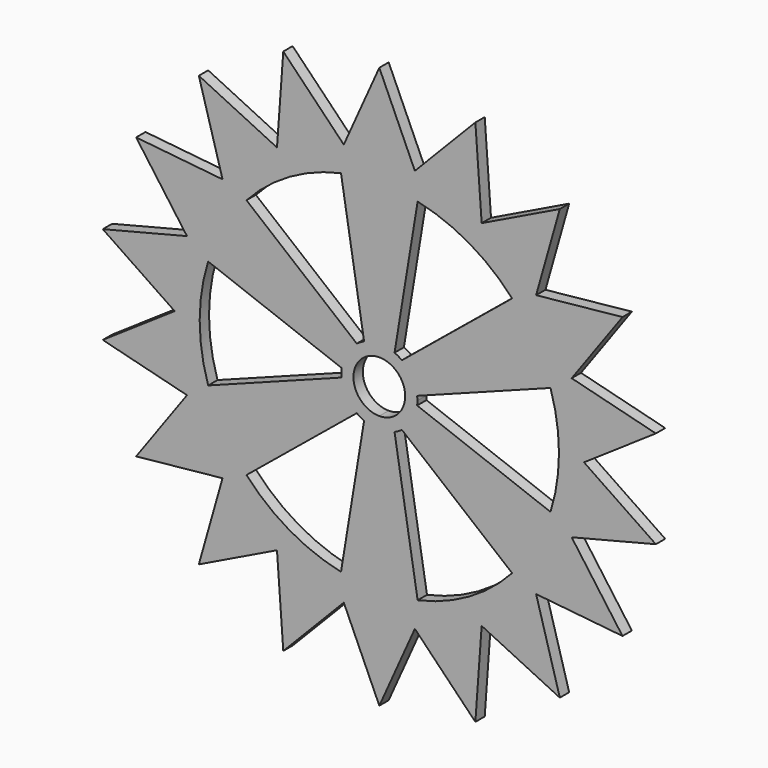
from build123d import *

# Parameters (mm, degrees)
F1_DEPTH = 3.175


with BuildPart() as f1:
    # F0 (on Front) → F1 (new body)
    with BuildSketch(Plane.XZ):
        with BuildLine():
            ThreePointArc((54.0144752369, 1.0356873286), (54.0219214454, 0.5178674576), (54.0244035909, 0))
            ThreePointArc((54.0244035909, 0), (54.0219214454, -0.5178674576), (54.0144752369, -1.0356873286))
            Line((54.0144752369, -1.0356873286), (55.5408836359, 0))
            Line((55.5408836359, 0), (54.0144752369, 1.0356873286))
        make_face()
        with BuildLine():
            ThreePointArc((51.1112297243, 17.5008108221), (53.2036515082, 9.3812392331), (54.0144752369, 1.0356873286))
            Line((54.0144752369, 1.0356873286), (55.5408836359, 0))
            Line((55.5408836359, 0), (75.0423507795, 13.2319911382))
            Line((75.0423507795, 13.2319911382), (52.1913585045, 18.9961009816))
            Line((52.1913585045, 18.9961009816), (51.1112297243, 17.5008108221))
        make_face()
        with BuildLine():
            Line((55.5408836359, 0), (54.0144752369, -1.0356873286))
            ThreePointArc((54.0144752369, -1.0356873286), (53.2036515082, -9.3812392331), (51.1112297243, -17.5008108221))
            Line((51.1112297243, -17.5008108221), (52.1913585045, -18.9961009816))
            Line((52.1913585045, -18.9961009816), (75.0423507795, -13.2319911382))
            Line((75.0423507795, -13.2319911382), (55.5408836359, 0))
        make_face()
        with BuildLine():
            ThreePointArc((50.4027778671, 19.4472663023), (50.7663333968, 18.4774342593), (51.1112297243, 17.5008108221))
            Line((51.1112297243, 17.5008108221), (52.1913585045, 18.9961009816))
            Line((52.1913585045, 18.9961009816), (50.4027778671, 19.4472663023))
        make_face()
        with BuildLine():
            Line((52.1913585045, -18.9961009816), (51.1112297243, -17.5008108221))
            ThreePointArc((51.1112297243, -17.5008108221), (50.7663333968, -18.4774342593), (50.4027778671, -19.4472663023))
            Line((50.4027778671, -19.4472663023), (52.1913585045, -18.9961009816))
        make_face()
        with BuildLine():
            ThreePointArc((42.0432155855, 33.9264529031), (46.786505934, 27.0122017955), (50.4027778671, 19.4472663023))
            Line((50.4027778671, 19.4472663023), (52.1913585045, 18.9961009816))
            Line((52.1913585045, 18.9961009816), (65.9911357684, 38.1))
            Line((65.9911357684, 38.1), (42.5467852752, 35.7009918322))
            Line((42.5467852752, 35.7009918322), (42.0432155855, 33.9264529031))
        make_face()
        with BuildLine():
            Line((52.1913585045, -18.9961009816), (50.4027778671, -19.4472663023))
            ThreePointArc((50.4027778671, -19.4472663023), (46.786505934, -27.0122017955), (42.0432155855, -33.9264529031))
            Line((42.0432155855, -33.9264529031), (42.5467852752, -35.7009918322))
            Line((42.5467852752, -35.7009918322), (65.9911357684, -38.1))
            Line((65.9911357684, -38.1), (52.1913585045, -18.9961009816))
        make_face()
        with BuildLine():
            ThreePointArc((40.7117616209, 35.5132179488), (41.3850941636, 34.726217249), (42.0432155855, 33.9264529031))
            Line((42.0432155855, 33.9264529031), (42.5467852752, 35.7009918322))
            Line((42.5467852752, 35.7009918322), (40.7117616209, 35.5132179488))
        make_face()
        with BuildLine():
            Line((42.5467852752, -35.7009918322), (42.0432155855, -33.9264529031))
            ThreePointArc((42.0432155855, -33.9264529031), (41.3850941636, -34.726217249), (40.7117616209, -35.5132179488))
            Line((40.7117616209, -35.5132179488), (42.5467852752, -35.7009918322))
        make_face()
        with BuildLine():
            ThreePointArc((27.9041691553, 46.2600640629), (34.726217249, 41.3850941636), (40.7117616209, 35.5132179488))
            Line((40.7117616209, 35.5132179488), (42.5467852752, 35.7009918322))
            Line((42.5467852752, 35.7009918322), (48.9804158581, 58.3725865657))
            Line((48.9804158581, 58.3725865657), (27.7704418179, 48.0998161773))
            Line((27.7704418179, 48.0998161773), (27.9041691553, 46.2600640629))
        make_face()
        with BuildLine():
            Line((42.5467852752, -35.7009918322), (40.7117616209, -35.5132179488))
            ThreePointArc((40.7117616209, -35.5132179488), (34.726217249, -41.3850941636), (27.9041691553, -46.2600640629))
            Line((27.9041691553, -46.2600640629), (27.7704418179, -48.0998161773))
            Line((27.7704418179, -48.0998161773), (48.9804158581, -58.3725865657))
            Line((48.9804158581, -58.3725865657), (42.5467852752, -35.7009918322))
        make_face()
        with BuildLine():
            ThreePointArc((26.1103060815, 47.2957513915), (27.0122017955, 46.786505934), (27.9041691553, 46.2600640629))
            Line((27.9041691553, 46.2600640629), (27.7704418179, 48.0998161773))
            Line((27.7704418179, 48.0998161773), (26.1103060815, 47.2957513915))
        make_face()
        with BuildLine():
            Line((27.7704418179, -48.0998161773), (27.9041691553, -46.2600640629))
            ThreePointArc((27.9041691553, -46.2600640629), (27.0122017955, -46.786505934), (26.1103060815, -47.2957513915))
            Line((26.1103060815, -47.2957513915), (27.7704418179, -48.0998161773))
        make_face()
        with BuildLine():
            ThreePointArc((10.3994681034, 53.0140287709), (18.4774342593, 50.7663333968), (26.1103060815, 47.2957513915))
            Line((26.1103060815, 47.2957513915), (27.7704418179, 48.0998161773))
            Line((27.7704418179, 48.0998161773), (26.0619349214, 71.6045777039))
            Line((26.0619349214, 71.6045777039), (9.6445732294, 54.6970928137))
            Line((9.6445732294, 54.6970928137), (10.3994681034, 53.0140287709))
        make_face()
        with BuildLine():
            Line((27.7704418179, -48.0998161773), (26.1103060815, -47.2957513915))
            ThreePointArc((26.1103060815, -47.2957513915), (18.4774342593, -50.7663333968), (10.3994681034, -53.0140287709))
            Line((10.3994681034, -53.0140287709), (9.6445732294, -54.6970928137))
            Line((9.6445732294, -54.6970928137), (26.0619349214, -71.6045777039))
            Line((26.0619349214, -71.6045777039), (27.7704418179, -48.0998161773))
        make_face()
        with BuildLine():
            ThreePointArc((8.3595622817, 53.3737192054), (9.3812392331, 53.2036515082), (10.3994681034, 53.0140287709))
            Line((10.3994681034, 53.0140287709), (9.6445732294, 54.6970928137))
            Line((9.6445732294, 54.6970928137), (8.3595622817, 53.3737192054))
        make_face()
        with BuildLine():
            Line((9.6445732294, -54.6970928137), (10.3994681034, -53.0140287709))
            ThreePointArc((10.3994681034, -53.0140287709), (9.3812392331, -53.2036515082), (8.3595622817, -53.3737192054))
            Line((8.3595622817, -53.3737192054), (9.6445732294, -54.6970928137))
        make_face()
        with BuildLine():
            ThreePointArc((0, 54.0244035909), (4.1924238726, 53.8614868475), (8.3595622817, 53.3737192054))
            Line((8.3595622817, 53.3737192054), (9.6445732294, 54.6970928137))
            Line((9.6445732294, 54.6970928137), (0, 76.2))
            Line((0, 76.2), (-9.6445732294, 54.6970928137))
            Line((-9.6445732294, 54.6970928137), (-8.3595622817, 53.3737192054))
            ThreePointArc((-8.3595622817, 53.3737192054), (-4.1924238726, 53.8614868475), (0, 54.0244035909))
        make_face()
        with BuildLine():
            Line((9.6445732294, -54.6970928137), (8.3595622817, -53.3737192054))
            ThreePointArc((8.3595622817, -53.3737192054), (4.1924238726, -53.8614868475), (0, -54.0244035909))
            ThreePointArc((0, -54.0244035909), (-4.1924238726, -53.8614868475), (-8.3595622817, -53.3737192054))
            Line((-8.3595622817, -53.3737192054), (-9.6445732294, -54.6970928137))
            Line((-9.6445732294, -54.6970928137), (0, -76.2))
            Line((0, -76.2), (9.6445732294, -54.6970928137))
        make_face()
        with BuildLine():
            ThreePointArc((-10.3994681034, 53.0140287709), (-9.3812392331, 53.2036515082), (-8.3595622817, 53.3737192054))
            Line((-8.3595622817, 53.3737192054), (-9.6445732294, 54.6970928137))
            Line((-9.6445732294, 54.6970928137), (-10.3994681034, 53.0140287709))
        make_face()
        with BuildLine():
            Line((-10.3994681034, 53.0140287709), (-9.6445732294, 54.6970928137))
            Line((-9.6445732294, 54.6970928137), (-26.0619349214, 71.6045777039))
            Line((-26.0619349214, 71.6045777039), (-27.7704418179, 48.0998161773))
            Line((-27.7704418179, 48.0998161773), (-26.1103060815, 47.2957513915))
            ThreePointArc((-26.1103060815, 47.2957513915), (-18.4774342593, 50.7663333968), (-10.3994681034, 53.0140287709))
        make_face()
        with BuildLine():
            Line((-9.6445732294, -54.6970928137), (-8.3595622817, -53.3737192054))
            ThreePointArc((-8.3595622817, -53.3737192054), (-9.3812392331, -53.2036515082), (-10.3994681034, -53.0140287709))
            Line((-10.3994681034, -53.0140287709), (-9.6445732294, -54.6970928137))
        make_face()
        with BuildLine():
            Line((-26.0619349214, -71.6045777039), (-9.6445732294, -54.6970928137))
            Line((-9.6445732294, -54.6970928137), (-10.3994681034, -53.0140287709))
            ThreePointArc((-10.3994681034, -53.0140287709), (-18.4774342593, -50.7663333968), (-26.1103060815, -47.2957513915))
            Line((-26.1103060815, -47.2957513915), (-27.7704418179, -48.0998161773))
            Line((-27.7704418179, -48.0998161773), (-26.0619349214, -71.6045777039))
        make_face()
        with BuildLine():
            ThreePointArc((-27.9041691553, 46.2600640629), (-27.0122017955, 46.786505934), (-26.1103060815, 47.2957513915))
            Line((-26.1103060815, 47.2957513915), (-27.7704418179, 48.0998161773))
            Line((-27.7704418179, 48.0998161773), (-27.9041691553, 46.2600640629))
        make_face()
        with BuildLine():
            Line((-27.9041691553, 46.2600640629), (-27.7704418179, 48.0998161773))
            Line((-27.7704418179, 48.0998161773), (-48.9804158581, 58.3725865657))
            Line((-48.9804158581, 58.3725865657), (-42.5467852752, 35.7009918322))
            Line((-42.5467852752, 35.7009918322), (-40.7117616209, 35.5132179488))
            ThreePointArc((-40.7117616209, 35.5132179488), (-34.726217249, 41.3850941636), (-27.9041691553, 46.2600640629))
        make_face()
        with BuildLine():
            Line((-27.7704418179, -48.0998161773), (-26.1103060815, -47.2957513915))
            ThreePointArc((-26.1103060815, -47.2957513915), (-27.0122017955, -46.786505934), (-27.9041691553, -46.2600640629))
            Line((-27.9041691553, -46.2600640629), (-27.7704418179, -48.0998161773))
        make_face()
        with BuildLine():
            Line((-48.9804158581, -58.3725865657), (-27.7704418179, -48.0998161773))
            Line((-27.7704418179, -48.0998161773), (-27.9041691553, -46.2600640629))
            ThreePointArc((-27.9041691553, -46.2600640629), (-34.726217249, -41.3850941636), (-40.7117616209, -35.5132179488))
            Line((-40.7117616209, -35.5132179488), (-42.5467852752, -35.7009918322))
            Line((-42.5467852752, -35.7009918322), (-48.9804158581, -58.3725865657))
        make_face()
        with BuildLine():
            ThreePointArc((-42.0432155855, 33.9264529031), (-41.3850941636, 34.726217249), (-40.7117616209, 35.5132179488))
            Line((-40.7117616209, 35.5132179488), (-42.5467852752, 35.7009918322))
            Line((-42.5467852752, 35.7009918322), (-42.0432155855, 33.9264529031))
        make_face()
        with BuildLine():
            Line((-42.0432155855, 33.9264529031), (-42.5467852752, 35.7009918322))
            Line((-42.5467852752, 35.7009918322), (-65.9911357684, 38.1))
            Line((-65.9911357684, 38.1), (-52.1913585045, 18.9961009816))
            Line((-52.1913585045, 18.9961009816), (-50.4027778671, 19.4472663023))
            ThreePointArc((-50.4027778671, 19.4472663023), (-46.786505934, 27.0122017955), (-42.0432155855, 33.9264529031))
        make_face()
        with BuildLine():
            Line((-42.5467852752, -35.7009918322), (-40.7117616209, -35.5132179488))
            ThreePointArc((-40.7117616209, -35.5132179488), (-41.3850941636, -34.726217249), (-42.0432155855, -33.9264529031))
            Line((-42.0432155855, -33.9264529031), (-42.5467852752, -35.7009918322))
        make_face()
        with BuildLine():
            Line((-65.9911357684, -38.1), (-42.5467852752, -35.7009918322))
            Line((-42.5467852752, -35.7009918322), (-42.0432155855, -33.9264529031))
            ThreePointArc((-42.0432155855, -33.9264529031), (-46.786505934, -27.0122017955), (-50.4027778671, -19.4472663023))
            Line((-50.4027778671, -19.4472663023), (-52.1913585045, -18.9961009816))
            Line((-52.1913585045, -18.9961009816), (-65.9911357684, -38.1))
        make_face()
        with BuildLine():
            ThreePointArc((-51.1112297243, 17.5008108221), (-50.7663333968, 18.4774342593), (-50.4027778671, 19.4472663023))
            Line((-50.4027778671, 19.4472663023), (-52.1913585045, 18.9961009816))
            Line((-52.1913585045, 18.9961009816), (-51.1112297243, 17.5008108221))
        make_face()
        with BuildLine():
            Line((-51.1112297243, 17.5008108221), (-52.1913585045, 18.9961009816))
            Line((-52.1913585045, 18.9961009816), (-75.0423507795, 13.2319911382))
            Line((-75.0423507795, 13.2319911382), (-55.5408836359, 0))
            Line((-55.5408836359, 0), (-54.0144752369, 1.0356873286))
            ThreePointArc((-54.0144752369, 1.0356873286), (-53.2036515082, 9.3812392331), (-51.1112297243, 17.5008108221))
        make_face()
        with BuildLine():
            Line((-52.1913585045, -18.9961009816), (-50.4027778671, -19.4472663023))
            ThreePointArc((-50.4027778671, -19.4472663023), (-50.7663333968, -18.4774342593), (-51.1112297243, -17.5008108221))
            Line((-51.1112297243, -17.5008108221), (-52.1913585045, -18.9961009816))
        make_face()
        with BuildLine():
            Line((-75.0423507795, -13.2319911382), (-52.1913585045, -18.9961009816))
            Line((-52.1913585045, -18.9961009816), (-51.1112297243, -17.5008108221))
            ThreePointArc((-51.1112297243, -17.5008108221), (-53.2036515082, -9.3812392331), (-54.0144752369, -1.0356873286))
            Line((-54.0144752369, -1.0356873286), (-55.5408836359, 0))
            Line((-55.5408836359, 0), (-75.0423507795, -13.2319911382))
        make_face()
        with BuildLine():
            ThreePointArc((-54.0144752369, -1.0356873286), (-54.0244035909, 0), (-54.0144752369, 1.0356873286))
            Line((-54.0144752369, 1.0356873286), (-55.5408836359, 0))
            Line((-55.5408836359, 0), (-54.0144752369, -1.0356873286))
        make_face()
        with BuildLine():
            Line((-6.1288269347, 8.3103227771), (-36.0461253584, 32.8195115967))
            ThreePointArc((-36.0461253584, 32.8195115967), (-42.2176813799, 24.3743897093), (-46.4455934617, 14.80710447))
            Line((-46.4455934617, 14.80710447), (-10.261364106, 1.1525584323))
            ThreePointArc((-10.261364106, 1.1525584323), (-8.9424822164, 5.1629445149), (-6.1288269347, 8.3103227771))
        make_face()
        with BuildLine():
            Line((0, 48.7487794185), (0, 54.0244035909))
            ThreePointArc((0, 54.0244035909), (-4.1924238726, 53.8614868475), (-8.3595622817, 53.3737192054))
            ThreePointArc((-8.3595622817, 53.3737192054), (-9.3812392331, 53.2036515082), (-10.3994681034, 53.0140287709))
            ThreePointArc((-10.3994681034, 53.0140287709), (-18.4774342593, 50.7663333968), (-26.1103060815, 47.2957513915))
            ThreePointArc((-26.1103060815, 47.2957513915), (-27.0122017955, 46.786505934), (-27.9041691553, 46.2600640629))
            ThreePointArc((-27.9041691553, 46.2600640629), (-34.726217249, 41.3850941636), (-40.7117616209, 35.5132179488))
            ThreePointArc((-40.7117616209, 35.5132179488), (-41.3850941636, 34.726217249), (-42.0432155855, 33.9264529031))
            ThreePointArc((-42.0432155855, 33.9264529031), (-46.786505934, 27.0122017955), (-50.4027778671, 19.4472663023))
            ThreePointArc((-50.4027778671, 19.4472663023), (-50.7663333968, 18.4774342593), (-51.1112297243, 17.5008108221))
            ThreePointArc((-51.1112297243, 17.5008108221), (-53.2036515082, 9.3812392331), (-54.0144752369, 1.0356873286))
            ThreePointArc((-54.0144752369, 1.0356873286), (-54.0244035909, 0), (-54.0144752369, -1.0356873286))
            ThreePointArc((-54.0144752369, -1.0356873286), (-53.2036515082, -9.3812392331), (-51.1112297243, -17.5008108221))
            ThreePointArc((-51.1112297243, -17.5008108221), (-50.7663333968, -18.4774342593), (-50.4027778671, -19.4472663023))
            ThreePointArc((-50.4027778671, -19.4472663023), (-46.786505934, -27.0122017955), (-42.0432155855, -33.9264529031))
            ThreePointArc((-42.0432155855, -33.9264529031), (-41.3850941636, -34.726217249), (-40.7117616209, -35.5132179488))
            ThreePointArc((-40.7117616209, -35.5132179488), (-34.726217249, -41.3850941636), (-27.9041691553, -46.2600640629))
            ThreePointArc((-27.9041691553, -46.2600640629), (-27.0122017955, -46.786505934), (-26.1103060815, -47.2957513915))
            ThreePointArc((-26.1103060815, -47.2957513915), (-18.4774342593, -50.7663333968), (-10.3994681034, -53.0140287709))
            ThreePointArc((-10.3994681034, -53.0140287709), (-9.3812392331, -53.2036515082), (-8.3595622817, -53.3737192054))
            ThreePointArc((-8.3595622817, -53.3737192054), (-4.1924238726, -53.8614868475), (0, -54.0244035909))
            Line((0, -54.0244035909), (0, -48.7487794185))
            ThreePointArc((0, -48.7487794185), (-5.2299184368, -48.4674266693), (-10.3994681034, -47.6266160667))
            ThreePointArc((-10.3994681034, -47.6266160667), (-24.3743897093, -42.2176813799), (-36.0461253584, -32.8195115967))
            ThreePointArc((-36.0461253584, -32.8195115967), (-42.2176813799, -24.3743897093), (-46.4455934617, -14.80710447))
            ThreePointArc((-46.4455934617, -14.80710447), (-48.7487794185, 0), (-46.4455934617, 14.80710447))
            ThreePointArc((-46.4455934617, 14.80710447), (-42.2176813799, 24.3743897093), (-36.0461253584, 32.8195115967))
            ThreePointArc((-36.0461253584, 32.8195115967), (-24.3743897093, 42.2176813799), (-10.3994681034, 47.6266160667))
            ThreePointArc((-10.3994681034, 47.6266160667), (-5.2299184368, 48.4674266693), (0, 48.7487794185))
        make_face()
        with BuildLine():
            ThreePointArc((54.0144752369, -1.0356873286), (54.0219214454, -0.5178674576), (54.0244035909, 0))
            ThreePointArc((54.0244035909, 0), (54.0219214454, 0.5178674576), (54.0144752369, 1.0356873286))
            ThreePointArc((54.0144752369, 1.0356873286), (53.2036515082, 9.3812392331), (51.1112297243, 17.5008108221))
            ThreePointArc((51.1112297243, 17.5008108221), (50.7663333968, 18.4774342593), (50.4027778671, 19.4472663023))
            ThreePointArc((50.4027778671, 19.4472663023), (46.786505934, 27.0122017955), (42.0432155855, 33.9264529031))
            ThreePointArc((42.0432155855, 33.9264529031), (41.3850941636, 34.726217249), (40.7117616209, 35.5132179488))
            ThreePointArc((40.7117616209, 35.5132179488), (34.726217249, 41.3850941636), (27.9041691553, 46.2600640629))
            ThreePointArc((27.9041691553, 46.2600640629), (27.0122017955, 46.786505934), (26.1103060815, 47.2957513915))
            ThreePointArc((26.1103060815, 47.2957513915), (18.4774342593, 50.7663333968), (10.3994681034, 53.0140287709))
            ThreePointArc((10.3994681034, 53.0140287709), (9.3812392331, 53.2036515082), (8.3595622817, 53.3737192054))
            ThreePointArc((8.3595622817, 53.3737192054), (4.1924238726, 53.8614868475), (0, 54.0244035909))
            Line((0, 54.0244035909), (0, 48.7487794185))
            ThreePointArc((0, 48.7487794185), (5.2299184368, 48.4674266693), (10.3994681034, 47.6266160667))
            ThreePointArc((10.3994681034, 47.6266160667), (24.3743897093, 42.2176813799), (36.0461253584, 32.8195115967))
            ThreePointArc((36.0461253584, 32.8195115967), (42.2176813799, 24.3743897093), (46.4455934617, 14.80710447))
            ThreePointArc((46.4455934617, 14.80710447), (48.1695416494, 7.4925798017), (48.7487794185, 0))
            ThreePointArc((48.7487794185, 0), (48.1695416494, -7.4925798017), (46.4455934617, -14.80710447))
            ThreePointArc((46.4455934617, -14.80710447), (42.2176813799, -24.3743897093), (36.0461253584, -32.8195115967))
            ThreePointArc((36.0461253584, -32.8195115967), (24.3743897093, -42.2176813799), (10.3994681034, -47.6266160667))
            ThreePointArc((10.3994681034, -47.6266160667), (5.2299184368, -48.4674266693), (0, -48.7487794185))
            Line((0, -48.7487794185), (0, -54.0244035909))
            ThreePointArc((0, -54.0244035909), (4.1924238726, -53.8614868475), (8.3595622817, -53.3737192054))
            ThreePointArc((8.3595622817, -53.3737192054), (9.3812392331, -53.2036515082), (10.3994681034, -53.0140287709))
            ThreePointArc((10.3994681034, -53.0140287709), (18.4774342593, -50.7663333968), (26.1103060815, -47.2957513915))
            ThreePointArc((26.1103060815, -47.2957513915), (27.0122017955, -46.786505934), (27.9041691553, -46.2600640629))
            ThreePointArc((27.9041691553, -46.2600640629), (34.726217249, -41.3850941636), (40.7117616209, -35.5132179488))
            ThreePointArc((40.7117616209, -35.5132179488), (41.3850941636, -34.726217249), (42.0432155855, -33.9264529031))
            ThreePointArc((42.0432155855, -33.9264529031), (46.786505934, -27.0122017955), (50.4027778671, -19.4472663023))
            ThreePointArc((50.4027778671, -19.4472663023), (50.7663333968, -18.4774342593), (51.1112297243, -17.5008108221))
            ThreePointArc((51.1112297243, -17.5008108221), (53.2036515082, -9.3812392331), (54.0144752369, -1.0356873286))
        make_face()
        with BuildLine():
            ThreePointArc((10.3994681034, 47.6266160667), (5.2299184368, 48.4674266693), (0, 48.7487794185))
            Line((0, 48.7487794185), (0, 10.3258890298))
            ThreePointArc((0, 10.3258890298), (2.1108437868, 10.1078347218), (4.1325371712, 9.4628812094))
            Line((4.1325371712, 9.4628812094), (10.3994681034, 47.6266160667))
        make_face()
        with BuildLine():
            Line((0, 10.3258890298), (0, 48.7487794185))
            ThreePointArc((0, 48.7487794185), (-5.2299184368, 48.4674266693), (-10.3994681034, 47.6266160667))
            Line((-10.3994681034, 47.6266160667), (-4.1325371712, 9.4628812094))
            ThreePointArc((-4.1325371712, 9.4628812094), (-2.1108437868, 10.1078347218), (0, 10.3258890298))
        make_face()
        with BuildLine():
            ThreePointArc((46.4455934617, 14.80710447), (42.2176813799, 24.3743897093), (36.0461253584, 32.8195115967))
            Line((36.0461253584, 32.8195115967), (6.1288269347, 8.3103227771))
            ThreePointArc((6.1288269347, 8.3103227771), (8.9424822164, 5.1629445149), (10.261364106, 1.1525584323))
            Line((10.261364106, 1.1525584323), (46.4455934617, 14.80710447))
        make_face()
        with BuildLine():
            Line((6.1288269347, -8.3103227771), (36.0461253584, -32.8195115967))
            ThreePointArc((36.0461253584, -32.8195115967), (42.2176813799, -24.3743897093), (46.4455934617, -14.80710447))
            Line((46.4455934617, -14.80710447), (10.261364106, -1.1525584323))
            ThreePointArc((10.261364106, -1.1525584323), (8.9424822164, -5.1629445149), (6.1288269347, -8.3103227771))
        make_face()
        with BuildLine():
            Line((0, -10.3258890298), (0, -48.7487794185))
            ThreePointArc((0, -48.7487794185), (5.2299184368, -48.4674266693), (10.3994681034, -47.6266160667))
            Line((10.3994681034, -47.6266160667), (4.1325371712, -9.4628812094))
            ThreePointArc((4.1325371712, -9.4628812094), (2.1108437868, -10.1078347218), (0, -10.3258890298))
        make_face()
        with BuildLine():
            ThreePointArc((-46.4455934617, -14.80710447), (-42.2176813799, -24.3743897093), (-36.0461253584, -32.8195115967))
            Line((-36.0461253584, -32.8195115967), (-6.1288269347, -8.3103227771))
            ThreePointArc((-6.1288269347, -8.3103227771), (-8.9424822164, -5.1629445149), (-10.261364106, -1.1525584323))
            Line((-10.261364106, -1.1525584323), (-46.4455934617, -14.80710447))
        make_face()
        with BuildLine():
            ThreePointArc((-10.3994681034, -47.6266160667), (-5.2299184368, -48.4674266693), (0, -48.7487794185))
            Line((0, -48.7487794185), (0, -10.3258890298))
            ThreePointArc((0, -10.3258890298), (-2.1108437868, -10.1078347218), (-4.1325371712, -9.4628812094))
            Line((-4.1325371712, -9.4628812094), (-10.3994681034, -47.6266160667))
        make_face()
        with BuildLine():
            Line((0, 7.016177114), (0, 10.3258890298))
            ThreePointArc((0, 10.3258890298), (-2.1108437868, 10.1078347218), (-4.1325371712, 9.4628812094))
            ThreePointArc((-4.1325371712, 9.4628812094), (-5.1629445149, 8.9424822164), (-6.1288269347, 8.3103227771))
            ThreePointArc((-6.1288269347, 8.3103227771), (-8.9424822164, 5.1629445149), (-10.261364106, 1.1525584323))
            ThreePointArc((-10.261364106, 1.1525584323), (-10.3258890298, 0), (-10.261364106, -1.1525584323))
            ThreePointArc((-10.261364106, -1.1525584323), (-8.9424822164, -5.1629445149), (-6.1288269347, -8.3103227771))
            ThreePointArc((-6.1288269347, -8.3103227771), (-5.1629445149, -8.9424822164), (-4.1325371712, -9.4628812094))
            ThreePointArc((-4.1325371712, -9.4628812094), (-2.1108437868, -10.1078347218), (0, -10.3258890298))
            Line((0, -10.3258890298), (0, -7.016177114))
            ThreePointArc((0, -7.016177114), (-7.016177114, 0), (0, 7.016177114))
        make_face()
        with BuildLine():
            ThreePointArc((4.1325371712, 9.4628812094), (2.1108437868, 10.1078347218), (0, 10.3258890298))
            Line((0, 10.3258890298), (0, 7.016177114))
            ThreePointArc((0, 7.016177114), (4.9611864153, 4.9611864153), (7.016177114, 0))
            ThreePointArc((7.016177114, 0), (4.9611864153, -4.9611864153), (0, -7.016177114))
            Line((0, -7.016177114), (0, -10.3258890298))
            ThreePointArc((0, -10.3258890298), (2.1108437868, -10.1078347218), (4.1325371712, -9.4628812094))
            ThreePointArc((4.1325371712, -9.4628812094), (5.1629445149, -8.9424822164), (6.1288269347, -8.3103227771))
            ThreePointArc((6.1288269347, -8.3103227771), (8.9424822164, -5.1629445149), (10.261364106, -1.1525584323))
            ThreePointArc((10.261364106, -1.1525584323), (10.3097451789, -0.5771816018), (10.3258890298, 0))
            ThreePointArc((10.3258890298, 0), (10.3097451789, 0.5771816018), (10.261364106, 1.1525584323))
            ThreePointArc((10.261364106, 1.1525584323), (8.9424822164, 5.1629445149), (6.1288269347, 8.3103227771))
            ThreePointArc((6.1288269347, 8.3103227771), (5.1629445149, 8.9424822164), (4.1325371712, 9.4628812094))
        make_face()
    extrude(amount=F1_DEPTH)


solid = f1.part
